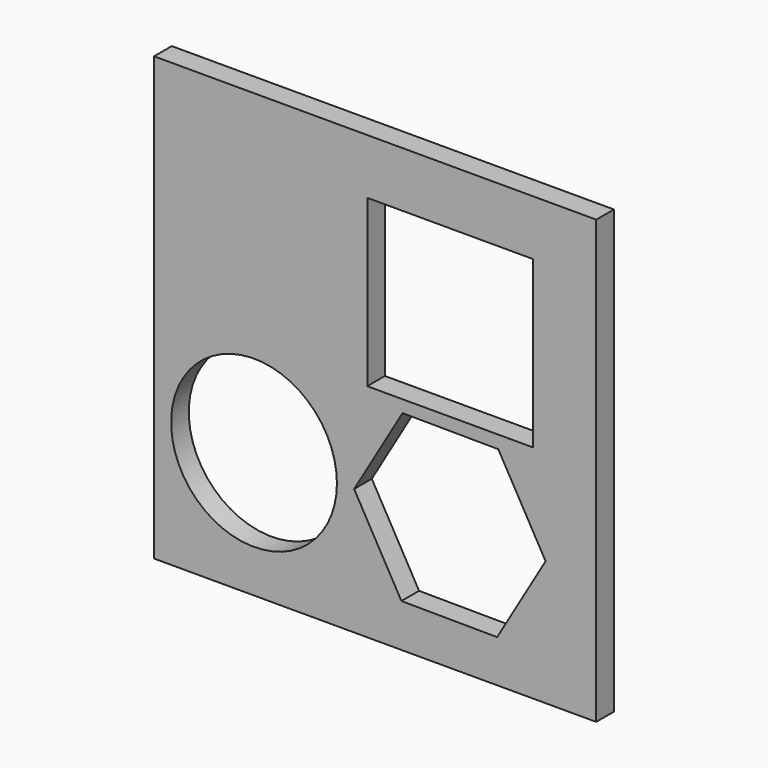
from build123d import *

# Parameters (mm, degrees)
F0_W     = 50.8
F0_H     = 50.8
F1_DEPTH = 2.54
F2_W     = 19.05
F2_H     = 19.05
F2_R     = 9.525
F3_DEPTH = 25.4


with BuildPart() as f1:
    # F0 (on Front) → F1 (new body)
    with BuildSketch(Plane.XZ):
        with Locations((-34.454534, 10.964983)):
            Rectangle(F0_W, F0_H)
    extrude(amount=F1_DEPTH)

    # F2 (on face) → F3 (cut)
    with BuildSketch(Plane.XZ.offset(2.54)):
        with Locations((-25.836355, 20.489983)):
            Rectangle(F2_W, F2_H)
        with Locations((-48.371602, 0)):
            Circle(F2_R)
        Polygon((-14.874928, -0.076784), (-20.307559, 9.486376), (-31.305813, 9.56316), (-36.871437, 0.076784), (-31.438806, -9.486376), (-20.440552, -9.56316), align=None)
    extrude(amount=-F3_DEPTH, mode=Mode.SUBTRACT)


solid = f1.part
